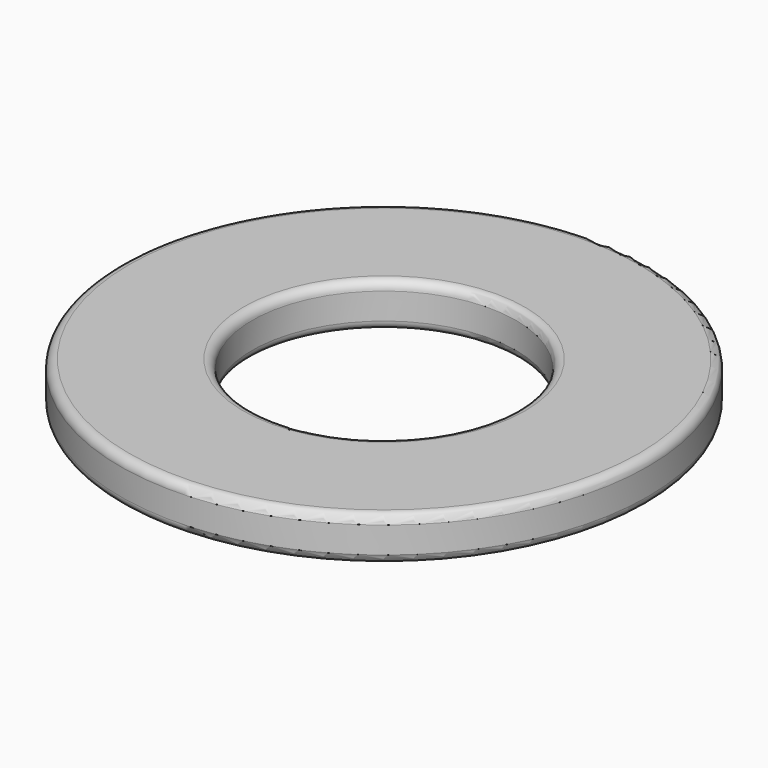
from build123d import *

# Parameters (mm, degrees)
F1_R     = 6
F1_R_2   = 3
F2_DEPTH = 1
F3_R     = 0.2


with BuildPart() as f2:
    # F1 (on offset) → F2 (new body)
    with BuildSketch(Plane.XY):
        Circle(F1_R)
        Circle(F1_R_2, mode=Mode.SUBTRACT)
    extrude(amount=F2_DEPTH)

    # F3
    f3_edges = [f2.edges().sort_by_distance(p)[0] for p in [
        (6, 0, 0.5),
        (-6, 0, 0),
        (-6, 0, 1),
        (-3, 0, 0),
        (-3, 0, 1),
    ]]
    fillet(f3_edges, radius=F3_R)


solid = f2.part
